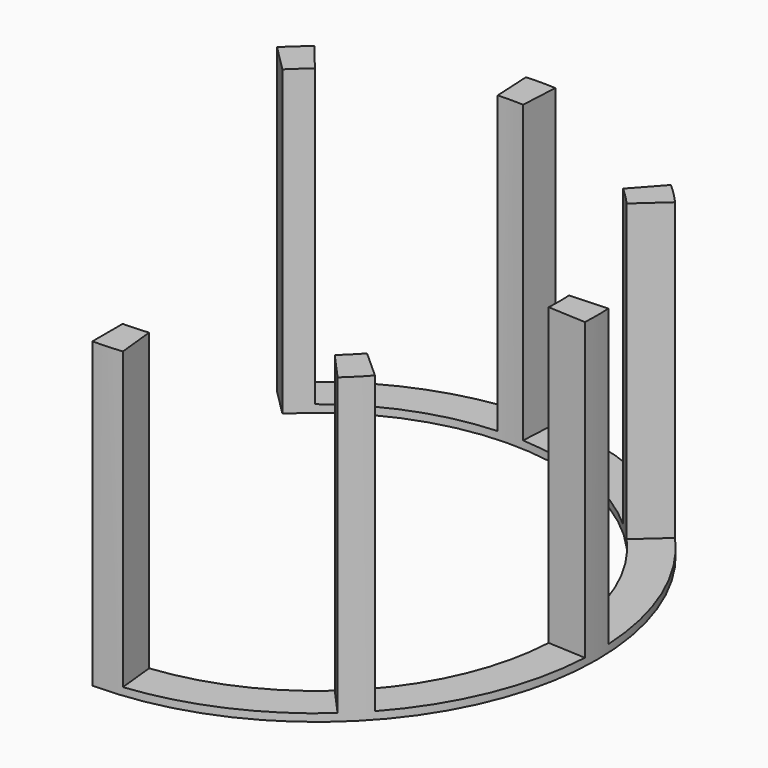
from build123d import *

# Parameters (mm, degrees)
PAD_DEPTH    = 40
POCKET_DEPTH = 39


with BuildPart() as part:
    # Sketch → Pad (new body)
    with BuildSketch(Plane.XY):
        with BuildLine():
            ThreePointArc((0, -37), (34.183543, 14.159287), (-26.162951, 26.162951))
            Line((-22.627417, 22.627417), (-26.162951, 26.162951))
            ThreePointArc((0, -32), (29.564145, 12.24587), (-22.627417, 22.627417))
            Line((0, -37), (0, -32))
        make_face()
    extrude(amount=PAD_DEPTH)

    # Sketch001 → Pocket (cut)
    with BuildSketch(Plane.XY.offset(40)):
        Polygon((0, 0), (-30.679579, 37.886125), (-2.393788, 45.676197), align=None)
        Polygon((0, 0), (2.341637, 44.681104), (37.049321, 41.14744), align=None)
        Polygon((0, 0), (39.999108, 36.015358), (48.030265, 2.51716), align=None)
        Polygon((0, 0), (49.461223, -2.592153), (39.264005, -35.353469), align=None)
        Polygon((0, 0), (33.741126, -37.473316), (4.909112, -46.707078), align=None)
    extrude(amount=-POCKET_DEPTH, mode=Mode.SUBTRACT)


solid = part.part
